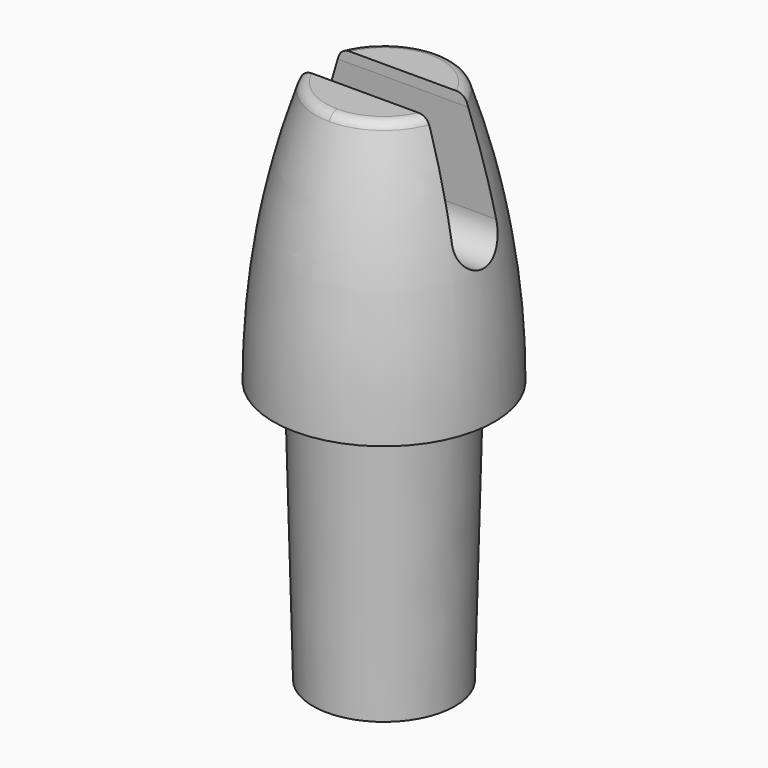
from build123d import *

# Parameters (mm, degrees)
F1_R          = 2.7
F2_R          = 2.95
F7_DEPTH      = 4.2010331125
F7_DEPTH_BACK = 4.2010331125
F8_R          = 0.4


with BuildPart() as f3:
    # F1 (on Top) → F3 section 0
    with BuildSketch(Plane.XY):
        Circle(F1_R)
    # F2 (on offset) → F3 section 1
    with BuildSketch(Plane.XY.offset(10)):
        Circle(F2_R)
    loft()

    # F4 (on Right) → F5 (revolve)
    with BuildSketch(Plane.YZ):
        with BuildLine():
            Line((-4.2, 10), (0, 10))
            Line((0, 10), (0, 20))
            Line((0, 20), (-2.5, 20))
            ThreePointArc((-2.5, 20), (-3.7757084126, 15.0723704301), (-4.2, 10))
        make_face()
    revolve(axis=Axis((0, 0, 5), (0, 0, -1)))

    # F6 (on Right) → F7 (cut, two sides)
    with BuildSketch(Plane.YZ) as f7_sk:
        with BuildLine():
            Line((0.9, 20), (-0.9, 20))
            Line((-0.9, 20), (-0.9, 19.6))
            Line((-0.9, 19.6), (-1.0490520763, 16.0946065159))
            ThreePointArc((-1.0490520763, 16.0946065159), (0, 15), (1.0490520763, 16.0946065159))
            Line((1.0490520763, 16.0946065159), (0.9, 19.6))
            Line((0.9, 19.6), (0.9, 20))
        make_face()
    extrude(amount=-F7_DEPTH, mode=Mode.SUBTRACT)
    extrude(f7_sk.sketch, amount=F7_DEPTH_BACK, mode=Mode.SUBTRACT)

    # F8
    f8_edges = [f3.edges().sort_by_distance(p)[0] for p in [
        (1.414214, -2.061553, 20),
        (-1.414214, -2.061553, 20),
        (0, 2.5, 20),
    ]]
    fillet(f8_edges, radius=F8_R)


solid = f3.part
